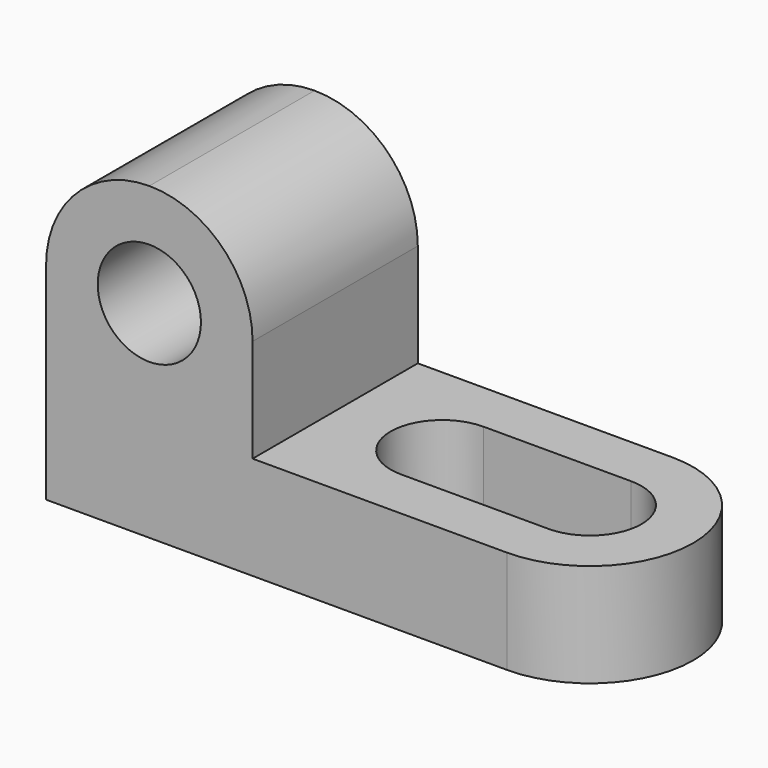
from build123d import *

# Parameters (mm, degrees)
F1_DEPTH = 25.4
F2_R     = 6.35
F3_DEPTH = 25.4
F5_DEPTH = 12.7


with BuildPart() as f1:
    # F0 (on Front) → F1 (new body)
    with BuildSketch(Plane.XZ):
        Polygon((0, 38.1), (0, 0), (69.85, 0), (69.85, 12.7), (25.4, 12.7), (25.4, 38.1), align=None)
    extrude(amount=F1_DEPTH)

    # F2 (on face) → F3 (cut)
    with BuildSketch(Plane.XZ.offset(25.4)):
        with Locations((12.7, 25.4)):
            Circle(F2_R)
        with BuildLine():
            ThreePointArc((12.7, 38.1), (21.680256, 34.380256), (25.4, 25.4))
            Line((25.4, 25.4), (25.4, 38.1))
            Line((25.4, 38.1), (12.7, 38.1))
        make_face()
        with BuildLine():
            ThreePointArc((0, 25.4), (3.719744, 34.380256), (12.7, 38.1))
            Line((12.7, 38.1), (0, 38.1))
            Line((0, 38.1), (0, 25.4))
        make_face()
    extrude(amount=-F3_DEPTH, mode=Mode.SUBTRACT)

    # F4 (on face) → F5 (cut)
    with BuildSketch(Plane.XY.offset(12.7)):
        with BuildLine():
            ThreePointArc((44.918065, -12.7), (43.058193, -8.209872), (38.568065, -6.35))
            ThreePointArc((38.568065, -6.35), (32.218065, -12.7), (38.568065, -19.05))
            ThreePointArc((38.568065, -19.05), (43.058193, -17.190128), (44.918065, -12.7))
        make_face()
        with BuildLine():
            ThreePointArc((56.72131, -19.05), (50.37131, -12.7), (56.72131, -6.35))
            Line((56.72131, -6.35), (38.568065, -6.35))
            ThreePointArc((38.568065, -6.35), (43.058193, -8.209872), (44.918065, -12.7))
            ThreePointArc((44.918065, -12.7), (43.058193, -17.190128), (38.568065, -19.05))
            Line((38.568065, -19.05), (56.72131, -19.05))
        make_face()
        with BuildLine():
            ThreePointArc((56.72131, -19.05), (61.211438, -17.190128), (63.07131, -12.7))
            ThreePointArc((63.07131, -12.7), (61.211438, -8.209872), (56.72131, -6.35))
            ThreePointArc((56.72131, -6.35), (50.37131, -12.7), (56.72131, -19.05))
        make_face()
        with BuildLine():
            ThreePointArc((56.72131, 0), (69.42131, -12.7), (56.72131, -25.4))
            Line((56.72131, -25.4), (69.85, -25.4))
            Line((69.85, -25.4), (69.85, 0))
            Line((69.85, 0), (56.72131, 0))
        make_face()
    extrude(amount=-F5_DEPTH, mode=Mode.SUBTRACT)


solid = f1.part
